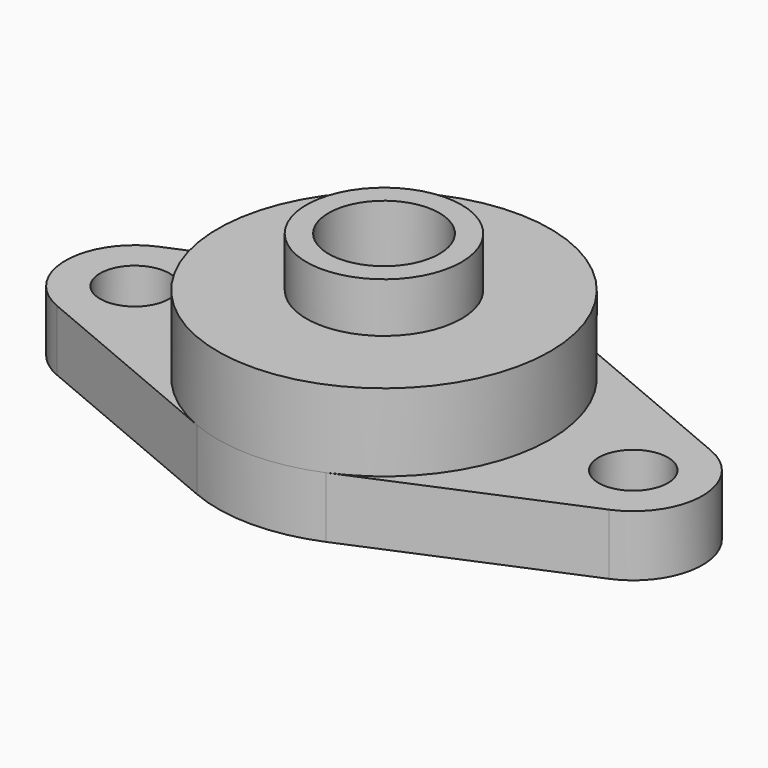
from build123d import *

# Parameters (mm, degrees)
F0_R      = 6.25
F1_DEPTH  = 11
F2_R      = 30
F3_DEPTH  = 25
F4_R      = 14
F4_R_2    = 10
F5_DEPTH  = 34
F5_FACE_R = 10
F6_DEPTH  = 25


with BuildPart() as f1:
    # F0 (on Top) → F1 (new body)
    with BuildSketch(Plane.XY):
        with BuildLine():
            Line((-49.861111, -11.516058), (-11.666667, -27.63854))
            ThreePointArc((-11.666667, -27.63854), (0, -30), (11.666667, -27.63854))
            Line((11.666667, -27.63854), (49.861111, -11.516058))
            ThreePointArc((49.861111, -11.516058), (57.5, 0), (49.861111, 11.516058))
            Line((49.861111, 11.516058), (11.666667, 27.63854))
            ThreePointArc((11.666667, 27.63854), (0, 30), (-11.666667, 27.63854))
            Line((-11.666667, 27.63854), (-49.861111, 11.516058))
            ThreePointArc((-49.861111, 11.516058), (-57.5, 0), (-49.861111, -11.516058))
        make_face()
        with Locations((-45, 0)):
            Circle(F0_R, mode=Mode.SUBTRACT)
        with Locations((45, 0)):
            Circle(F0_R, mode=Mode.SUBTRACT)
    extrude(amount=F1_DEPTH)

    # F2 (on Top) → F3 (join)
    with BuildSketch(Plane.XY):
        Circle(F2_R)
    extrude(amount=F3_DEPTH)

    # F4 (on Top) → F5 (join)
    with BuildSketch(Plane.XY):
        Circle(F4_R)
        Circle(F4_R_2, mode=Mode.SUBTRACT)
    extrude(amount=F5_DEPTH)

    # F5_face (on face) → F6 (cut)
    with BuildSketch(Plane.XY.offset(25)):
        Circle(F5_FACE_R)
    extrude(amount=-F6_DEPTH, mode=Mode.SUBTRACT)


solid = f1.part
